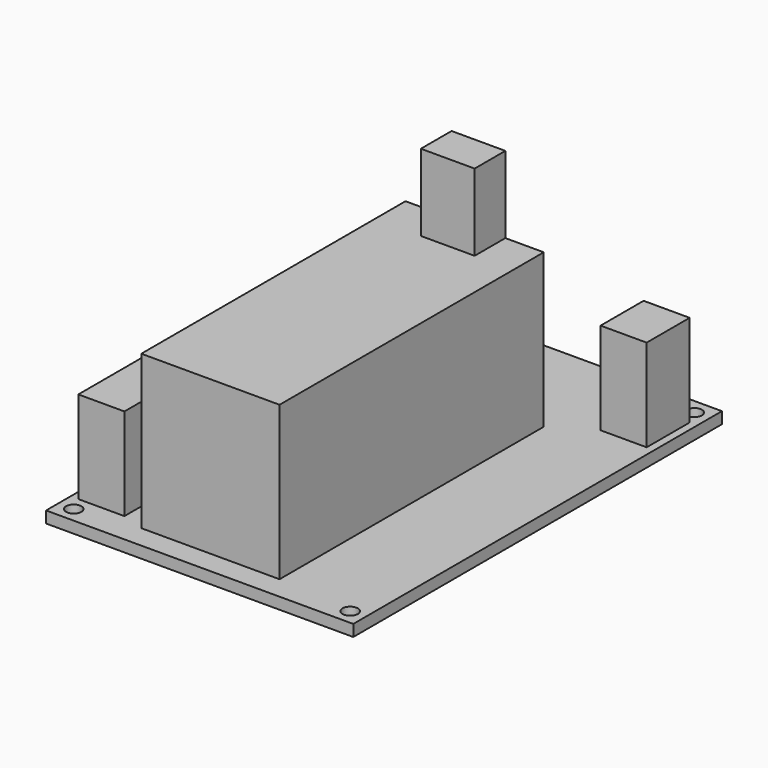
from build123d import *

# Parameters (mm, degrees)
SKETCH_W      = 40
SKETCH_H      = 60
PAD_DEPTH     = 1.5
SKETCH001_R   = 1
POCKET_DEPTH  = 1.501
SKETCH002_W   = 18
SKETCH002_H   = 43
PAD001_DEPTH  = 20
SKETCH003_W   = 7
SKETCH003_H   = 5
PAD002_DEPTH  = 10
SKETCH004_W   = 6
SKETCH004_H   = 12
SKETCH004_H_2 = 15
SKETCH004_H_3 = 7
PAD003_DEPTH  = 12


with BuildPart() as part:
    # Sketch → Pad (new body)
    with BuildSketch(Plane.XY):
        Rectangle(SKETCH_W, SKETCH_H)
    extrude(amount=PAD_DEPTH)

    # Sketch001 (on Face6 of Pad) → Pocket (cut, through all)
    with BuildSketch(Plane.XY.offset(1.5)):
        with Locations((-18, 28)):
            Circle(SKETCH001_R)
        with Locations((18, 28)):
            Circle(SKETCH001_R)
        with Locations((-18, -28)):
            Circle(SKETCH001_R)
        with Locations((18, -28)):
            Circle(SKETCH001_R)
    extrude(amount=-POCKET_DEPTH, mode=Mode.SUBTRACT)

    # Sketch002 (on Face5 of Pocket) → Pad001 (join)
    with BuildSketch(Plane.XY.offset(1.5)):
        with Locations((-1, -5.5)):
            Rectangle(SKETCH002_W, SKETCH002_H)
    extrude(amount=PAD001_DEPTH)

    # Sketch003 (on Face15 of Pad001) → Pad002 (join)
    with BuildSketch(Plane.XY.offset(21.5)):
        with Locations((-0.5, 13.5)):
            Rectangle(SKETCH003_W, SKETCH003_H)
    extrude(amount=PAD002_DEPTH)

    # Sketch004 (on Face5 of Pad002) → Pad003 (join)
    with BuildSketch(Plane.XY.offset(1.5)):
        with Locations((-16, -20)):
            Rectangle(SKETCH004_W, SKETCH004_H)
        with Locations((-16, -3.5)):
            Rectangle(SKETCH004_W, SKETCH004_H_2)
        with Locations((16, 22.5)):
            Rectangle(SKETCH004_W, SKETCH004_H_3)
    extrude(amount=PAD003_DEPTH)


solid = part.part
